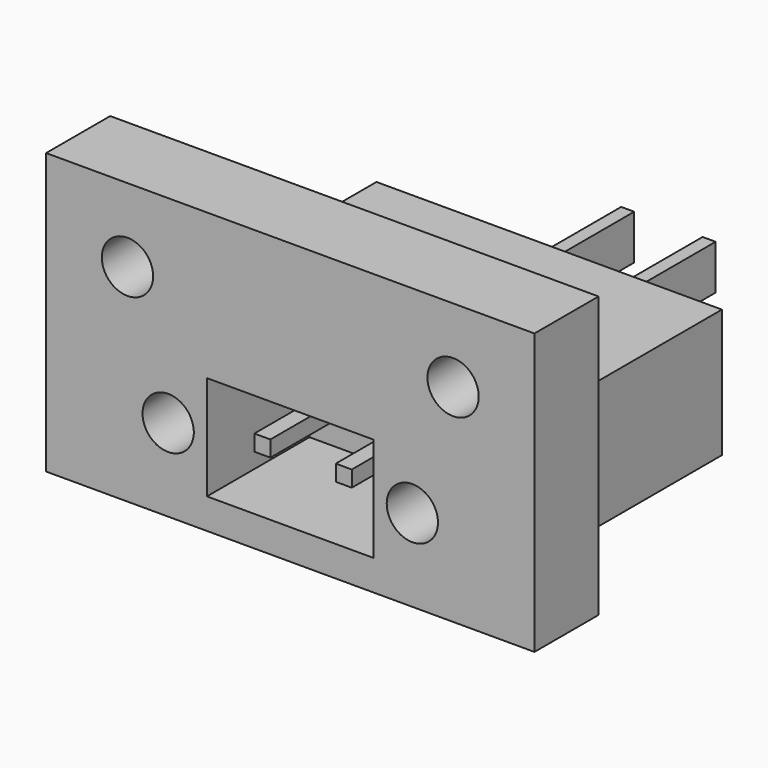
from build123d import *

# Parameters (mm, degrees)
F0_W      = 30.48
F0_H      = 17.5
F1_DEPTH  = 5
F3_W      = 21.56
F3_H      = 8
F4_DEPTH  = 15.2
F2_W      = 10.4
F2_H      = 6.5
F5_DEPTH  = 8
F7_D      = 3.2
F8_W      = 1
F8_H      = 1
F9_DEPTH  = 7
F10_W     = 0.8128
F10_H     = 2.794
F11_DEPTH = 9.3


with BuildPart() as f1:
    # F0 (on Front) → F1 (new body)
    with BuildSketch(Plane.XZ):
        Rectangle(F0_W, F0_H)
    extrude(amount=F1_DEPTH)

    # F3 (on face) → F4 (join)
    with BuildSketch(Plane(origin=(0, 0, 0), x_dir=(-1, 0, 0), z_dir=(0, 1, 0))):
        with Locations((0, -3.6)):
            Rectangle(F3_W, F3_H)
    extrude(amount=F4_DEPTH)

    # F2 (on face) → F5 (cut)
    with BuildSketch(Plane.XZ.offset(5)):
        with Locations((0, -3.6)):
            Rectangle(F2_W, F2_H)
    extrude(amount=-F5_DEPTH, mode=Mode.SUBTRACT)

    # F7 (through all)
    with Locations(Plane.XZ.offset(5)):
        with Locations((-10.16, 4.15), (-7.62, -3.6), (10.16, 4.15), (7.62, -3.6)):
            Hole(F7_D / 2)


with BuildPart() as f9:
    # F8 (on face) → F9 (new body)
    with BuildSketch(Plane.XZ.offset(-3)):
        with Locations((2.54, -3.6)):
            Rectangle(F8_W, F8_H)
        with Locations((-2.54, -3.6)):
            Rectangle(F8_W, F8_H)
    extrude(amount=F9_DEPTH)


with BuildPart() as f11:
    # F10 (on face) → F11 (new body)
    with BuildSketch(Plane(origin=(0, 15.2, 0), x_dir=(-1, 0, 0), z_dir=(0, 1, 0))):
        with Locations((-2.54, -3.6)):
            Rectangle(F10_W, F10_H)
        with Locations((2.54, -3.6)):
            Rectangle(F10_W, F10_H)
    extrude(amount=F11_DEPTH)


solid = Compound([f1.part, f9.part, f11.part])
